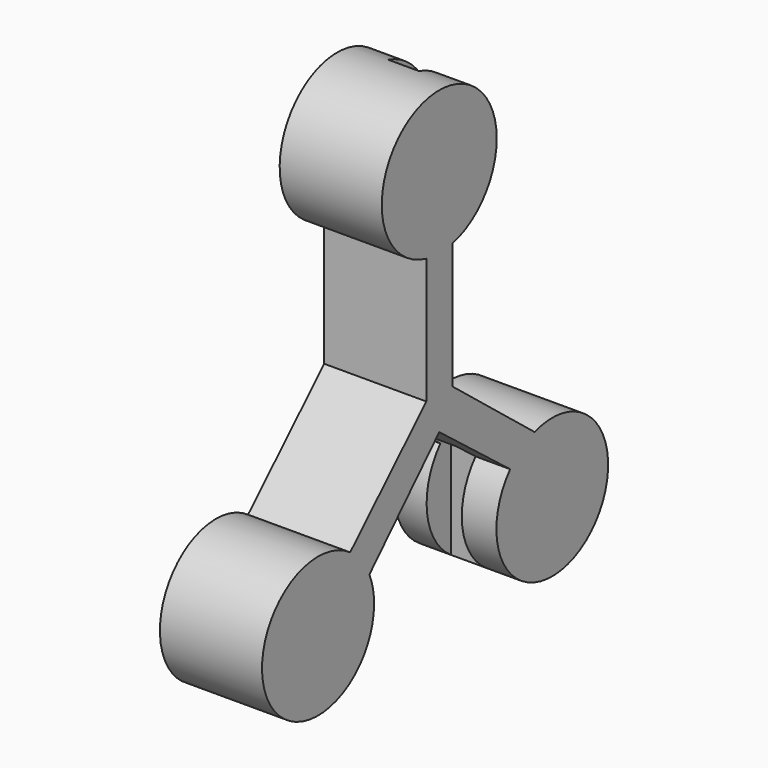
from build123d import *

# Parameters (mm, degrees)
F1_DEPTH = 25.4
F2_W     = 7.6199993491
F2_H     = 34.71333161
F2_W_2   = 8.7488871068
F2_H_2   = 34.4311110675
F3_DEPTH = 25.4
F4_DEPTH = 25.4
F5_DEPTH = 25.4


with BuildPart() as f1:
    # F0 (on Right) → F1 (new body)
    with BuildSketch(Plane.YZ):
        with BuildLine():
            ThreePointArc((4.0102475369, 31.2737714921), (13.9789110295, 37.5583620793), (17.8654682829, 48.683334142))
            ThreePointArc((17.8654682829, 48.683334142), (-11.1249720627, 62.6622451715), (-4.0102475369, 31.2737714921))
            Line((-4.0102475369, 31.2737714921), (4.0102475369, 31.2737714921))
        make_face()
        with BuildLine():
            Line((4.0102475369, 31.2737714921), (-4.0102475369, 31.2737714921))
            ThreePointArc((-4.0102475369, 31.2737714921), (0, 30.8178658591), (4.0102475369, 31.2737714921))
        make_face()
        with BuildLine():
            ThreePointArc((4.0102475369, 31.2737714921), (0, 30.8178658591), (-4.0102475369, 31.2737714921))
            Line((-4.0102475369, 31.2737714921), (-4.0102475369, 0))
            Line((-4.0102475369, 0), (4.0922206827, 0))
            Line((4.0922206827, 0), (4.0922206827, 31.2737714921))
            Line((4.0922206827, 31.2737714921), (4.0102475369, 31.2737714921))
        make_face()
        with BuildLine():
            Line((4.0922206827, 0), (-4.0102475369, 0))
            Line((-4.0102475369, 0), (-27.6950067122, -23.4025270809))
            ThreePointArc((-27.6950067122, -23.4025270809), (-24.2033996069, -26.6378410284), (-21.7180567466, -30.6976005513))
            Line((-21.7180567466, -30.6976005513), (0, -8.3255562931))
            Line((0, -8.3255562931), (22.0484417187, -25.4207379206))
            ThreePointArc((22.0484417187, -25.4207379206), (25.5051095185, -22.3833397186), (29.6382622048, -20.3606215012))
            Line((29.6382622048, -20.3606215012), (4.0922206827, 0))
        make_face()
        with BuildLine():
            ThreePointArc((-21.7180567466, -30.6976005513), (-24.2033996069, -26.6378410284), (-27.6950067122, -23.4025270809))
            ThreePointArc((-27.6950067122, -23.4025270809), (-53.1240683212, -45.7241699015), (-20.2587280311, -37.6766659319))
            ThreePointArc((-20.2587280311, -37.6766659319), (-20.6274632454, -34.11166264), (-21.7180567466, -30.6976005513))
        make_face()
        with BuildLine():
            ThreePointArc((52.4996409272, -36.8300005794), (45.2856622606, -22.7420351096), (29.6382622048, -20.3606215012))
            ThreePointArc((29.6382622048, -20.3606215012), (25.5051095185, -22.3833397186), (22.0484417187, -25.4207379206))
            ThreePointArc((22.0484417187, -25.4207379206), (29.0447706115, -53.0892041857), (52.4996409272, -36.8300005794))
        make_face()
    extrude(amount=F1_DEPTH)

    # F2 (on Front) → F3 (cut)
    with BuildSketch(Plane.XZ):
        with Locations((12.6999989152, 48.5422220081)):
            Rectangle(F2_W, F2_H)
        with Locations((12.4177793041, -37.958888337)):
            Rectangle(F2_W_2, F2_H_2)
    extrude(amount=-F3_DEPTH, mode=Mode.SUBTRACT)

    # F2 (on Front) → F4 (cut)
    with BuildSketch(Plane.XZ):
        with Locations((12.6999989152, 48.5422220081)):
            Rectangle(F2_W, F2_H)
        with Locations((12.4177793041, -37.958888337)):
            Rectangle(F2_W_2, F2_H_2)
    extrude(amount=-F4_DEPTH, mode=Mode.SUBTRACT)

    # F2 (on Front) → F5 (cut)
    with BuildSketch(Plane.XZ):
        with Locations((12.6999989152, 48.5422220081)):
            Rectangle(F2_W, F2_H)
        with Locations((12.4177793041, -37.958888337)):
            Rectangle(F2_W_2, F2_H_2)
    extrude(amount=-F5_DEPTH, mode=Mode.SUBTRACT)


solid = f1.part
